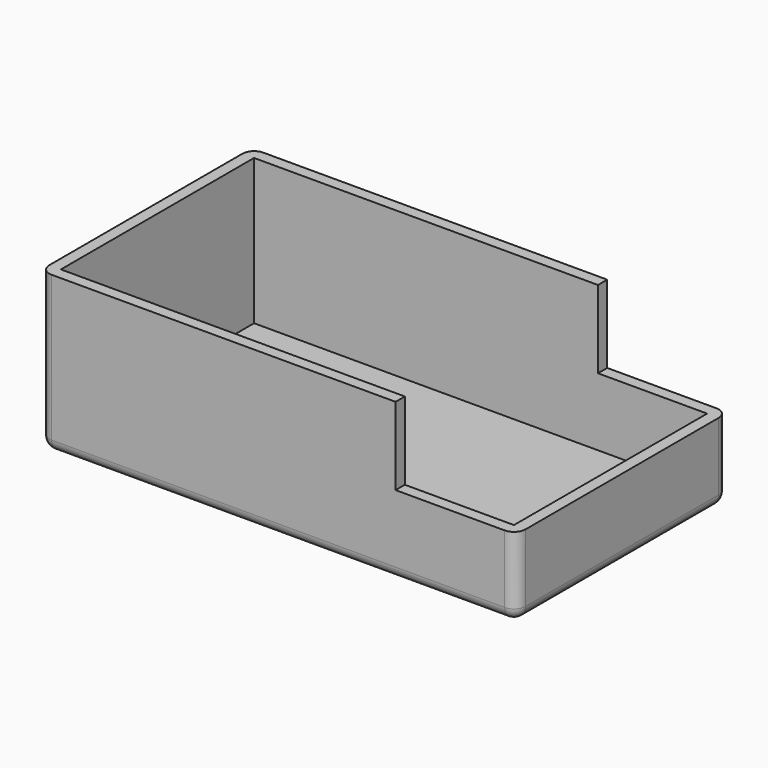
from build123d import *

# Parameters (mm, degrees)
SKETCH_W     = 137
SKETCH_H     = 73
PAD_DEPTH    = 44
THICKNESS_T  = 3.5
SKETCH001_W  = 36.5
SKETCH001_H  = 23.5
POCKET_DEPTH = 89


with BuildPart() as part:
    # Sketch → Pad (new body)
    with BuildSketch(Plane.XY):
        Rectangle(SKETCH_W, SKETCH_H)
    extrude(amount=PAD_DEPTH)

    # Thickness
    thickness_openings = [part.faces().sort_by_distance(p)[0] for p in [
        (0, 0, 44),
    ]]
    offset(amount=THICKNESS_T, openings=thickness_openings)

    # Sketch001 (on Face12 of Thickness) → Pocket (cut)
    with BuildSketch(Plane.XZ.offset(40)):
        with Locations((53.75, 32.25)):
            Rectangle(SKETCH001_W, SKETCH001_H)
    extrude(amount=-POCKET_DEPTH, mode=Mode.SUBTRACT)


solid = part.part
